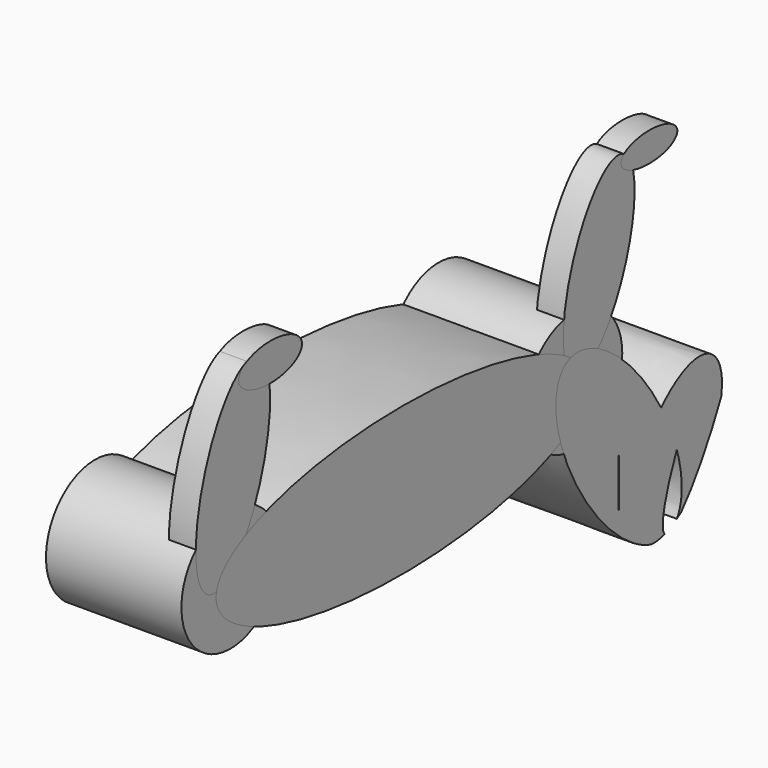
from build123d import *

# Parameters (mm, degrees)
F0_R     = 5.6597561227
F2_DEPTH = 12.7
F0_R_2   = 5.7402207177
F4_DEPTH = 2.54
F6_DEPTH = 2.54
F8_DEPTH = 12.7


with BuildPart() as f2:
    # F0 (on Right) → F2 (new body)
    with BuildSketch(Plane.YZ):
        with Locations((20.1570969075, -24.3224315345)):
            Circle(F0_R)
    extrude(amount=F2_DEPTH)


with BuildPart() as f2b:
    # F0 (on Right) → F2, piece 2 (new body)
    with BuildSketch(Plane.YZ):
        with Locations((-20.1117694378, -24.3041832)):
            Circle(F0_R_2)
    extrude(amount=F2_DEPTH)


with BuildPart() as f2c:
    # F1 (on Right) → F2, piece 3 (new body)
    with BuildSketch(Plane.YZ):
        with BuildLine():
            add(Edge.make_bspline(
                [(21.7901896685, -25.1413863152), (21.7901896685, -13.1124720845), (-10.8950948343, -19.1269291999), (-43.5803793371, -25.1413863152), (-10.8950948343, -31.1558434306), (21.7901896685, -37.1703005459), (21.7901896685, -25.1413863152)],
                knots=[0, 0, 0, 2.0943951024, 2.0943951024, 4.1887902048, 4.1887902048, 6.2831853072, 6.2831853072, 6.2831853072], degree=2, weights=[1, 0.5, 1, 0.5, 1, 0.5, 1]))
        make_face()
    extrude(amount=F2_DEPTH)


with BuildPart() as f4:
    # F3 (on face) → F4 (new body)
    with BuildSketch(Plane.YZ.offset(12.7)):
        with BuildLine():
            add(Edge.make_bspline(
                [(21.3993190766, -23.8318714862), (20.7367572315, -22.7320415488), (19.0230486812, -21.7543413535)],
                knots=[0.2180890882, 0.2180890882, 0.2180890882, 0.5474185344, 0.5474185344, 0.5474185344], degree=2, weights=[0.9067131604, 0.8444652633, 0.8069427988]))
            add(Edge.make_bspline(
                [(21.3993190766, -23.8318714862), (26.1788614724, -22.2328216687), (27.182999757, -12.8666461933), (28.1871380417, -3.5004707179), (22.9697970964, -9.1831194787), (17.7524561511, -14.8657682395), (19.0230486812, -21.7543413535)],
                knots=[0.2932103, 0.2932103, 0.2932103, 2.0837684088, 2.0837684088, 3.8743265176, 3.8743265176, 5.6648846264, 5.6648846264, 5.6648846264], degree=2, weights=[1, 0.6253010713, 1, 0.6253010713, 1, 0.6253010713, 1]))
        make_face()
    extrude(amount=-F4_DEPTH)


with BuildPart() as f4b:
    # F3 (on face) → F4, piece 2 (new body)
    with BuildSketch(Plane.YZ.offset(12.7)):
        with BuildLine():
            add(Edge.make_bspline(
                [(-18.2560023408, -21.3497193418), (-21.3586750978, -22.8671926133), (-21.7408583226, -24.6743336722)],
                knots=[2.6027606092, 2.6027606092, 2.6027606092, 3.0805334457, 3.0805334457, 3.0805334457], degree=2, weights=[0.8161895767, 0.7575004506, 0.7508499338]))
            add(Edge.make_bspline(
                [(-18.2560023408, -21.3497193418), (-13.3612700195, -13.0094861699), (-16.0985788967, -8.0365030602), (-18.835887774, -3.0635199506), (-22.728776068, -13.223844917), (-26.621664362, -23.3841698834), (-22.4595740438, -24.6385149658)],
                knots=[1.0186911064, 1.0186911064, 1.0186911064, 2.7735225067, 2.7735225067, 4.5283539069, 4.5283539069, 6.2831853072, 6.2831853072, 6.2831853072], degree=2, weights=[1, 0.6391408347, 1, 0.6391408347, 1, 0.6391408347, 1]))
            add(Edge.make_bspline(
                [(-22.4595740438, -24.6385149658), (-22.1220046278, -24.7402495521), (-21.7408583226, -24.6743336722)],
                knots=[0, 0, 0, 0.1945757904, 0.1945757904, 0.1945757904], degree=2, weights=[1, 0.9952712643, 1]))
        make_face()
    extrude(amount=-F4_DEPTH)


with BuildPart() as f6:
    # F5 (on face) → F6 (new body)
    with BuildSketch(Plane.YZ.offset(12.7)):
        with BuildLine():
            add(Edge.make_bspline(
                [(25.671672076, -8.5786180571), (25.671672076, -10.9673320877), (30.6193837896, -9.7729750724), (35.5670955032, -8.5786180571), (30.6193837896, -7.3842610418), (25.671672076, -6.1899040265), (25.671672076, -8.5786180571)],
                knots=[0, 0, 0, 2.0943951024, 2.0943951024, 4.1887902048, 4.1887902048, 6.2831853072, 6.2831853072, 6.2831853072], degree=2, weights=[1, 0.5, 1, 0.5, 1, 0.5, 1]))
        make_face()
        with BuildLine():
            add(Edge.make_bspline(
                [(27.0842726857, -9.710098853), (26.7793939722, -8.3817091655), (26.0280981388, -7.9550474696)],
                knots=[2.5915415143, 2.5915415143, 2.5915415143, 3.0597227583, 3.0597227583, 3.0597227583], degree=2, weights=[0.8477493427, 0.8053432759, 0.8141718422]))
            add(Edge.make_bspline(
                [(27.0842726857, -9.710098853), (34.3213244013, -11.8187655625), (32.1689177142, -8.2420988601), (30.0165110271, -4.6654321578), (26.0280981388, -7.9550474696)],
                knots=[0.9621697048, 0.9621697048, 0.9621697048, 3.3880905957, 3.3880905957, 5.8140114866, 5.8140114866, 5.8140114866], degree=2, weights=[1, 0.3502480182, 1, 0.3502480182, 1]))
        make_face()
    extrude(amount=-F6_DEPTH)


with BuildPart() as f6b:
    # F5 (on face) → F6, piece 2 (new body)
    with BuildSketch(Plane.YZ.offset(12.7)):
        with BuildLine():
            add(Edge.make_bspline(
                [(-19.1423967481, -8.2861054689), (-19.1423967481, -11.3149554683), (-13.578819111, -9.8005304686), (-8.0152414739, -8.2861054689), (-13.578819111, -6.7716804692), (-19.1423967481, -5.2572554695), (-19.1423967481, -8.2861054689)],
                knots=[0, 0, 0, 2.0943951024, 2.0943951024, 4.1887902048, 4.1887902048, 6.2831853072, 6.2831853072, 6.2831853072], degree=2, weights=[1, 0.5, 1, 0.5, 1, 0.5, 1]))
        make_face()
    extrude(amount=-F6_DEPTH)


with BuildPart() as f8:
    # F7 (on Right) → F8 (new body)
    with BuildSketch(Plane.YZ):
        with BuildLine():
            add(Edge.make_bspline(
                [(35.8329058395, -28.4200919761), (33.4421998683, -27.4970231099), (30.3679143018, -30.6693161808)],
                knots=[3.2553863489, 3.2553863489, 3.2553863489, 4.3654051791, 4.3654051791, 4.3654051791], degree=2, weights=[1, 0.849895479, 1]))
            add(Edge.make_bspline(
                [(32.211313021, -34.8713320827), (31.5784388818, -32.814882049), (30.3679143018, -30.6693161808)],
                knots=[4.1221466071, 4.1221466071, 4.1221466071, 4.5584311293, 4.5584311293, 4.5584311293], degree=2, weights=[1, 0.9763011788, 1]))
            add(Edge.make_bspline(
                [(35.8329058395, -28.4200919761), (33.8243497044, -31.2200655616), (32.211313021, -34.8713320827)],
                knots=[4.1075645111, 4.1075645111, 4.1075645111, 4.9914661277, 4.9914661277, 4.9914661277], degree=2, weights=[1, 0.9039190159, 1]))
        make_face()
        with BuildLine():
            add(Edge.make_bspline(
                [(35.8329058395, -28.4200919761), (33.8243497044, -31.2200655616), (32.211313021, -34.8713320827)],
                knots=[4.1075645111, 4.1075645111, 4.1075645111, 4.9914661277, 4.9914661277, 4.9914661277], degree=2, weights=[1, 0.9039190159, 1]))
            add(Edge.make_bspline(
                [(32.2110537667, -40.5930625812), (33.4102428858, -38.7671135788), (32.211313021, -34.8713320827)],
                knots=[3.3270003451, 3.3270003451, 3.3270003451, 4.1221466071, 4.1221466071, 4.1221466071], degree=2, weights=[1, 0.922003348, 1]))
            add(Edge.make_bspline(
                [(32.2110537667, -40.5930625812), (32.4606490751, -40.4358878808), (32.7091366921, -40.2539922858)],
                knots=[0.8678233454, 0.8678233454, 0.8678233454, 0.9621192328, 0.9621192328, 0.9621192328], degree=2, weights=[1, 0.9988887416, 1]))
            add(Edge.make_bspline(
                [(32.7091366921, -40.2539922858), (35.1254767234, -37.6506412315), (37.4126494866, -32.6385534856)],
                knots=[0.6511654654, 0.6511654654, 0.6511654654, 1.7961714817, 1.7961714817, 1.7961714817], degree=2, weights=[1, 0.8405476359, 1]))
            add(Edge.make_bspline(
                [(37.4126494866, -32.6385534856), (37.9394036813, -29.233426028), (35.8329058395, -28.4200919761)],
                knots=[2.2553734925, 2.2553734925, 2.2553734925, 3.2553863489, 3.2553863489, 3.2553863489], degree=2, weights=[1, 0.87757948, 1]))
        make_face()
        with BuildLine():
            add(Edge.make_bspline(
                [(30.3679143018, -30.6693161808), (23.4332509429, -37.8250549846), (28.1155938731, -41.0717968798)],
                knots=[4.3654051791, 4.3654051791, 4.3654051791, 6.2655361999, 6.2655361999, 6.2655361999], degree=2, weights=[1, 0.581629801, 1]))
            add(Edge.make_bspline(
                [(28.1155938731, -41.0717968798), (28.6759248714, -41.3341407523), (29.193002233, -41.4709910392)],
                knots=[2.5292228798, 2.5292228798, 2.5292228798, 2.6921965, 2.6921965, 2.6921965], degree=2, weights=[1, 0.9966817866, 1]))
            add(Edge.make_bspline(
                [(29.193002233, -41.4709910392), (29.933938377, -41.5611501692), (30.8036175537, -41.2731249407)],
                knots=[0.2606672744, 0.2606672744, 0.2606672744, 0.5985197482, 0.5985197482, 0.5985197482], degree=2, weights=[1, 0.9857658605, 1]))
            add(Edge.make_bspline(
                [(32.211313021, -34.8713320827), (29.7821517311, -40.369976586), (30.8036175537, -41.2731249407)],
                knots=[4.9914661277, 4.9914661277, 4.9914661277, 6.2296867573, 6.2296867573, 6.2296867573], degree=2, weights=[1, 0.8143950729, 1]))
            add(Edge.make_bspline(
                [(32.211313021, -34.8713320827), (31.5784388818, -32.814882049), (30.3679143018, -30.6693161808)],
                knots=[4.1221466071, 4.1221466071, 4.1221466071, 4.5584311293, 4.5584311293, 4.5584311293], degree=2, weights=[1, 0.9763011788, 1]))
        make_face()
        with BuildLine():
            add(Edge.make_bspline(
                [(30.3679143018, -30.6693161808), (23.9941462851, -19.3722807183), (19.2553196102, -22.4820226431)],
                knots=[4.5584311293, 4.5584311293, 4.5584311293, 6.2831853072, 6.2831853072, 6.2831853072], degree=2, weights=[1, 0.6506341674, 1]))
            add(Edge.make_bspline(
                [(19.2553196102, -22.4820226431), (6.4118668857, -30.9102320158), (28.1155938731, -41.0717968798)],
                knots=[0, 0, 0, 2.5292228798, 2.5292228798, 2.5292228798], degree=2, weights=[1, 0.3014231649, 1]))
            add(Edge.make_bspline(
                [(30.3679143018, -30.6693161808), (23.4332509429, -37.8250549846), (28.1155938731, -41.0717968798)],
                knots=[4.3654051791, 4.3654051791, 4.3654051791, 6.2655361999, 6.2655361999, 6.2655361999], degree=2, weights=[1, 0.581629801, 1]))
        make_face()
        with BuildLine():
            add(Edge.make_bspline(
                [(25.4117045552, -31.8635217845), (25.3702923295, -31.8635217845), (25.3909984424, -35.9011236578), (25.4117045552, -39.9387255311), (25.432410668, -35.9011236578), (25.4531167808, -31.8635217845), (25.4117045552, -31.8635217845)],
                knots=[0, 0, 0, 2.0943951024, 2.0943951024, 4.1887902048, 4.1887902048, 6.2831853072, 6.2831853072, 6.2831853072], degree=2, weights=[1, 0.5, 1, 0.5, 1, 0.5, 1]))
        make_face(mode=Mode.SUBTRACT)
    extrude(amount=F8_DEPTH)


solid = Compound([f2.part, f2b.part, f2c.part, f4.part, f4b.part, f6.part, f6b.part, f8.part])
